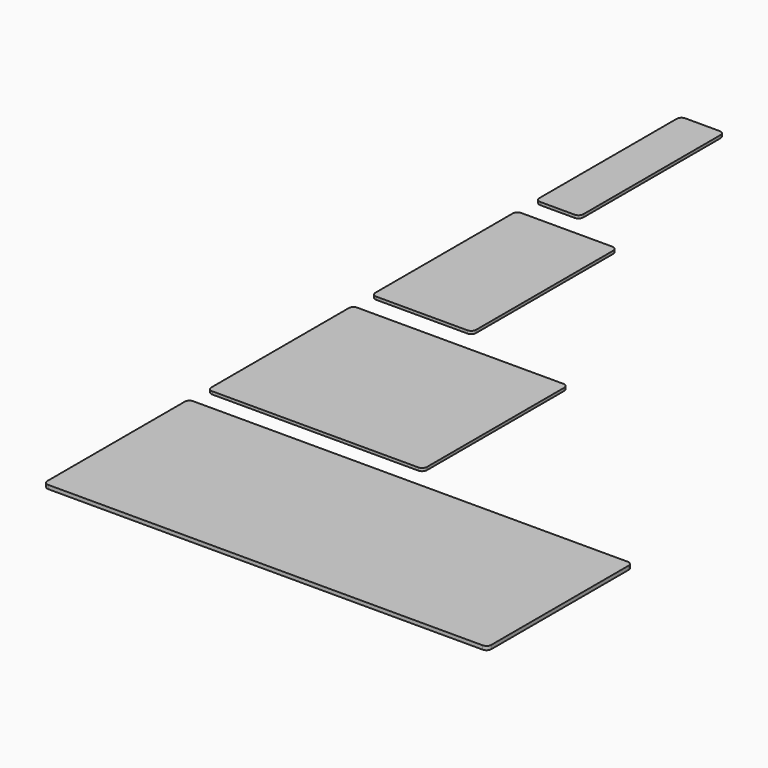
from build123d import *

# Parameters (mm, degrees)
BOX001_W     = 45.2
BOX001_H     = 38
BOX001_DEPTH = 0.6
FILLET001_R  = 1
BOX002_W     = 21.1
BOX002_H     = 38
BOX002_DEPTH = 0.6
FILLET002_R  = 1
BOX003_W     = 9.2
BOX003_H     = 38
BOX003_DEPTH = 0.6
FILLET003_R  = 1
BOX_W        = 93.1
BOX_H        = 38
BOX_DEPTH    = 0.8
FILLET_R     = 1


with BuildPart() as standardseparator:
    # Box001 → Box001 (new body)
    with BuildSketch(Plane.XY):
        with Locations((22.6, 19)):
            Rectangle(BOX001_W, BOX001_H)
    extrude(amount=BOX001_DEPTH)

    # Fillet001
    fillet001_edges = [standardseparator.edges().sort_by_distance(p)[0] for p in [
        (0, 0, 0.3),
        (0, 38, 0.3),
        (45.2, 0, 0.3),
        (45.2, 38, 0.3),
    ]]
    fillet(fillet001_edges, radius=FILLET001_R)


with BuildPart() as standardseparator_1:
    # Fillet001 placement: moved
    add(standardseparator.part.moved(Location((0, 43, 0))))


with BuildPart() as smallseparator:
    # Box002 → Box002 (new body)
    with BuildSketch(Plane.XY):
        with Locations((10.55, 19)):
            Rectangle(BOX002_W, BOX002_H)
    extrude(amount=BOX002_DEPTH)

    # Fillet002
    fillet002_edges = [smallseparator.edges().sort_by_distance(p)[0] for p in [
        (0, 0, 0.3),
        (0, 38, 0.3),
        (21.1, 0, 0.3),
        (21.1, 38, 0.3),
    ]]
    fillet(fillet002_edges, radius=FILLET002_R)


with BuildPart() as smallseparator_1:
    # Fillet002 placement: moved
    add(smallseparator.part.moved(Location((0, 86, 0))))


with BuildPart() as tinyseparator:
    # Box003 → Box003 (new body)
    with BuildSketch(Plane.XY):
        with Locations((4.6, 19)):
            Rectangle(BOX003_W, BOX003_H)
    extrude(amount=BOX003_DEPTH)

    # Fillet003
    fillet003_edges = [tinyseparator.edges().sort_by_distance(p)[0] for p in [
        (0, 0, 0.3),
        (0, 38, 0.3),
        (9.2, 0, 0.3),
        (9.2, 38, 0.3),
    ]]
    fillet(fillet003_edges, radius=FILLET003_R)


with BuildPart() as tinyseparator_1:
    # Fillet003 placement: moved
    add(tinyseparator.part.moved(Location((0, 129, 0))))


with BuildPart() as bigseparator:
    # Box → Box (new body)
    with BuildSketch(Plane.XY):
        with Locations((46.55, 19)):
            Rectangle(BOX_W, BOX_H)
    extrude(amount=BOX_DEPTH)

    # Fillet
    fillet_edges = [bigseparator.edges().sort_by_distance(p)[0] for p in [
        (0, 0, 0.4),
        (0, 38, 0.4),
        (93.1, 0, 0.4),
        (93.1, 38, 0.4),
    ]]
    fillet(fillet_edges, radius=FILLET_R)


solid = Compound([standardseparator_1.part, smallseparator_1.part, tinyseparator_1.part, bigseparator.part])
